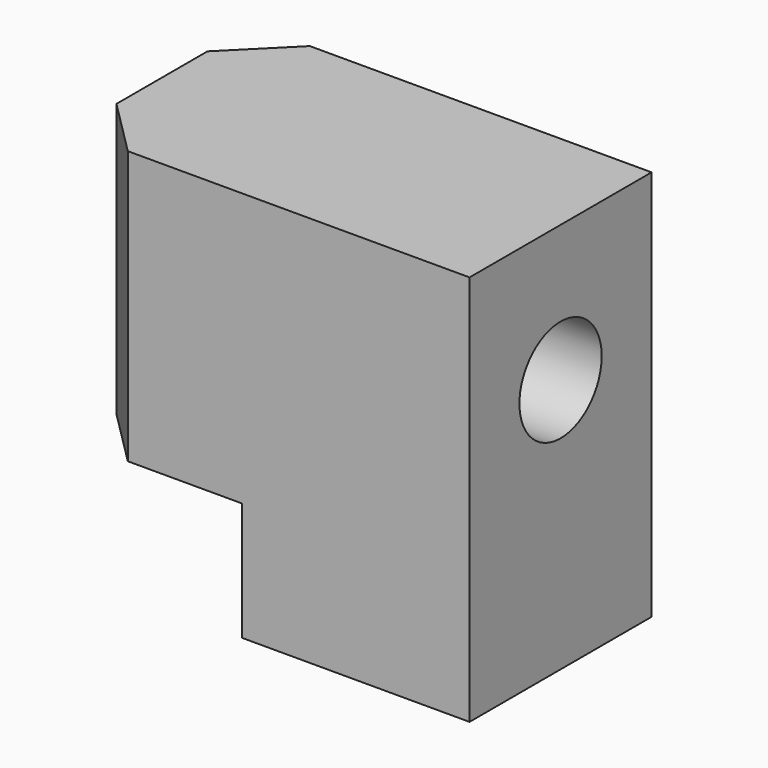
from build123d import *

# Parameters (mm, degrees)
F0_W     = 6.35
F0_H     = 6.35
F1_DEPTH = 3.302
F2_W     = 11.1252
F2_H     = 7.62
F3_DEPTH = 3.175
F4_R     = 1.4351
F5_DEPTH = 11.1262
F6_SIZE  = 1.5875


with BuildPart() as f1:
    # F0 (on Top) → F1 (new body)
    with BuildSketch(Plane.XY):
        with Locations((3.9116, 0)):
            Rectangle(F0_W, F0_H)
    extrude(amount=-F1_DEPTH)

    # F2 (on Front) → F3 (join, symmetric)
    with BuildSketch(Plane.XZ):
        with Locations((1.524, 3.81)):
            Rectangle(F2_W, F2_H)
    extrude(amount=F3_DEPTH, both=True)

    # F4 (on face) → F5 (cut, through all)
    with BuildSketch(Plane.YZ.offset(7.0866)):
        with Locations((0, 3.81)):
            Circle(F4_R)
    extrude(amount=-F5_DEPTH, mode=Mode.SUBTRACT)

    # F6
    f6_edges = [f1.edges().sort_by_distance(p)[0] for p in [
        (-4.0386, -3.175, 3.81),
        (-4.0386, 3.175, 3.81),
    ]]
    chamfer(f6_edges, length=F6_SIZE)


solid = f1.part
